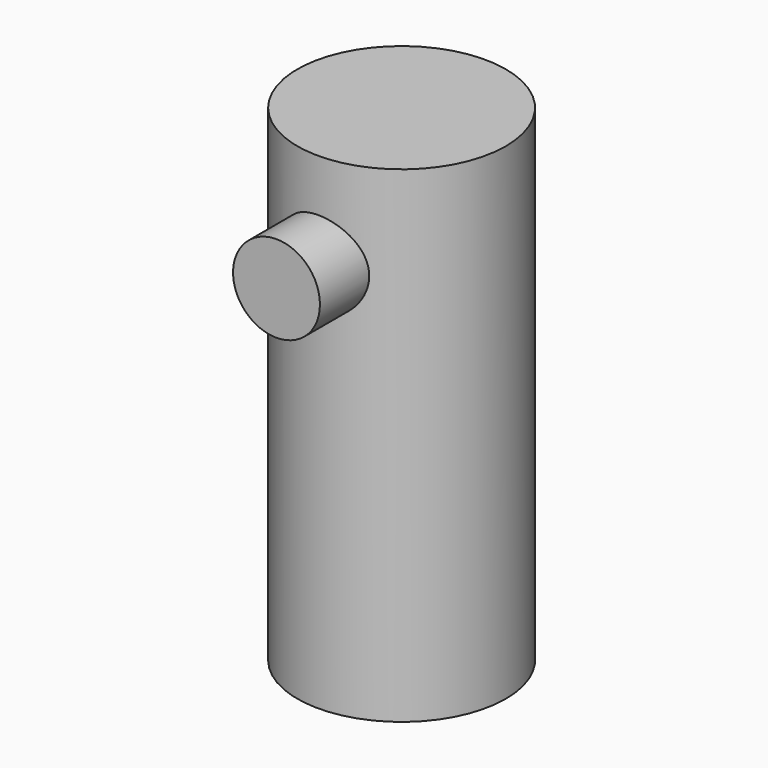
from build123d import *

# Parameters (mm, degrees)
F0_R     = 15.24
F1_DEPTH = 71.12
F2_R     = 6.35
F3_DEPTH = 22.86


with BuildPart() as f1:
    # F0 (on Top) → F1 (new body)
    with BuildSketch(Plane.XY):
        Circle(F0_R)
    extrude(amount=F1_DEPTH)

    # F2 (on Front) → F3 (join)
    with BuildSketch(Plane.XZ):
        with Locations((0, 57.15)):
            Circle(F2_R)
    extrude(amount=F3_DEPTH)


solid = f1.part
